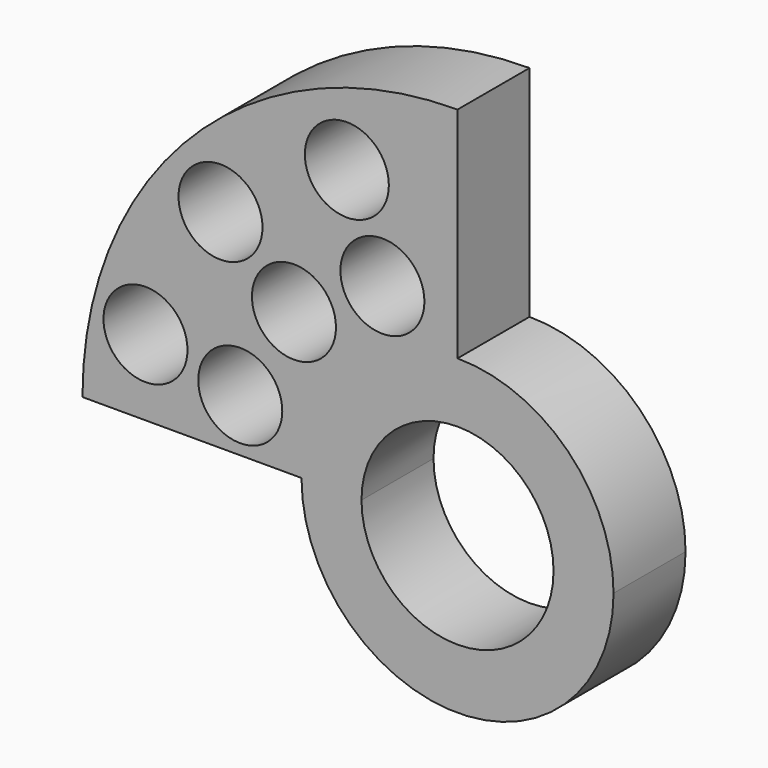
from build123d import *

# Parameters (mm, degrees)
F0_R     = 1.4
F1_DEPTH = 3


with BuildPart() as f1:
    # F0 (on Front) → F1 (new body)
    with BuildSketch(Plane.XZ):
        with BuildLine():
            Line((-5.2, 0), (-3.2, 0))
            ThreePointArc((-3.2, 0), (-2.2627416998, 2.2627416998), (0, 3.2))
            Line((0, 3.2), (0, 5.2))
            ThreePointArc((0, 5.2), (-3.6769552622, 3.6769552622), (-5.2, 0))
        make_face()
        with BuildLine():
            Line((-12.5, 0), (-5.2, 0))
            ThreePointArc((-5.2, 0), (-3.6769552622, 3.6769552622), (0, 5.2))
            Line((0, 5.2), (0, 12.5))
            ThreePointArc((0, 12.5), (-8.8388347648, 8.8388347648), (-12.5, 0))
        make_face()
        with Locations((-10.3991426346, 2.5194905169)):
            Circle(F0_R, mode=Mode.SUBTRACT)
        with Locations((-7.2405245447, 1.7542247057)):
            Circle(F0_R, mode=Mode.SUBTRACT)
        with Locations((-5.4508171577, 4.7889011689)):
            Circle(F0_R, mode=Mode.SUBTRACT)
        with Locations((-7.8991851943, 6.9261877564)):
            Circle(F0_R, mode=Mode.SUBTRACT)
        with Locations((-2.5033686383, 6.5064692388)):
            Circle(F0_R, mode=Mode.SUBTRACT)
        with Locations((-3.6882084925, 9.5327961412)):
            Circle(F0_R, mode=Mode.SUBTRACT)
        with BuildLine():
            Line((-12.5, 0), (-5.2, 0))
            ThreePointArc((-5.2, 0), (-3.6769552622, 3.6769552622), (0, 5.2))
            Line((0, 5.2), (0, 12.5))
            ThreePointArc((0, 12.5), (-8.8388347648, 8.8388347648), (-12.5, 0))
        make_face()
        with Locations((-10.3991426346, 2.5194905169)):
            Circle(F0_R, mode=Mode.SUBTRACT)
        with Locations((-7.2405245447, 1.7542247057)):
            Circle(F0_R, mode=Mode.SUBTRACT)
        with Locations((-5.4508171577, 4.7889011689)):
            Circle(F0_R, mode=Mode.SUBTRACT)
        with Locations((-7.8991851943, 6.9261877564)):
            Circle(F0_R, mode=Mode.SUBTRACT)
        with Locations((-2.5033686383, 6.5064692388)):
            Circle(F0_R, mode=Mode.SUBTRACT)
        with Locations((-3.6882084925, 9.5327961412)):
            Circle(F0_R, mode=Mode.SUBTRACT)
        with BuildLine():
            ThreePointArc((3.2, 0), (0, -3.2), (-3.2, 0))
            Line((-3.2, 0), (-5.2, 0))
            ThreePointArc((-5.2, 0), (0, -5.2), (5.2, 0))
            ThreePointArc((5.2, 0), (3.6769552622, 3.6769552622), (0, 5.2))
            Line((0, 5.2), (0, 3.2))
            ThreePointArc((0, 3.2), (2.2627416998, 2.2627416998), (3.2, 0))
        make_face()
    extrude(amount=F1_DEPTH)


solid = f1.part
